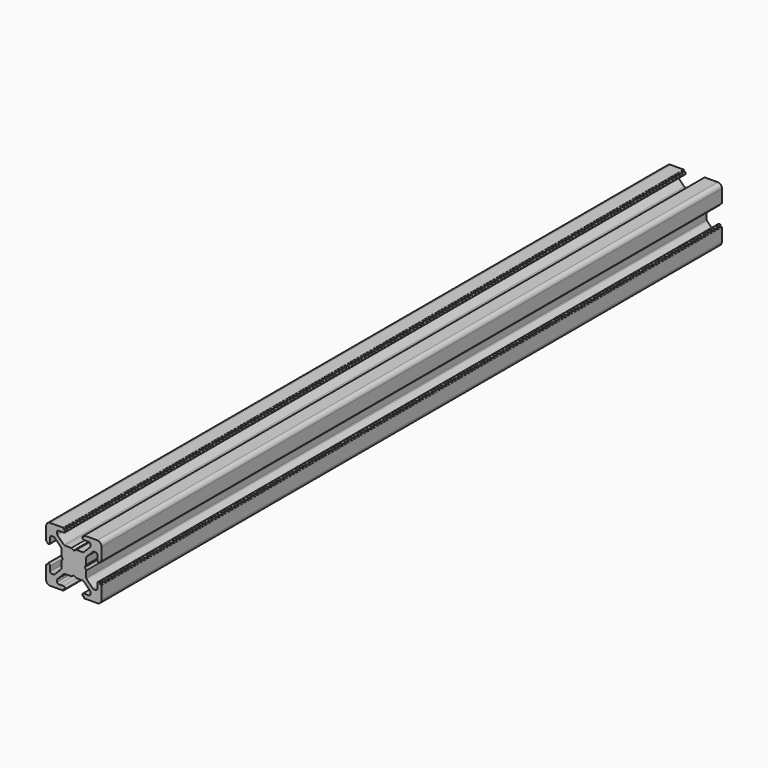
from build123d import *

# Parameters (mm, degrees)
PAD007_DEPTH    = 280
POCKET019_DEPTH = 280.001


with BuildPart() as pad007:
    # Sketch015 → Pad007 (new body)
    with BuildSketch(Plane(origin=(0, 0, -1.5), x_dir=(0, 0, -1), z_dir=(0, 1, 0))):
        with BuildLine():
            Line((0, 20), (4.65, 20))
            ThreePointArc((4.85, 19.8), (4.791421, 19.941421), (4.65, 20))
            Line((4.85, 19.8), (4.85, 19.5))
            Line((4.85, 19.5), (5.2, 19.5))
            ThreePointArc((5.4, 19.3), (5.341421, 19.441421), (5.2, 19.5))
            Line((5.4, 19.3), (5.4, 19))
            ThreePointArc((4.9, 18.5), (5.253553, 18.646446), (5.4, 19))
            Line((4.9, 18.5), (2.999999, 18.5))
            ThreePointArc((2.999999, 18.5), (2.646446, 18.353553), (2.499999, 18))
            Line((2.499999, 18), (2.499999, 17.267767))
            ThreePointArc((2.499999, 17.267767), (2.53806, 17.076425), (2.646446, 16.914213))
            Line((2.646446, 16.914213), (4.914213, 14.646447))
            ThreePointArc((4.914213, 14.646447), (5.076424, 14.53806), (5.267766, 14.5))
            Line((5.267766, 14.5), (7.54641, 14.5))
            ThreePointArc((7.64641, 14.473205), (7.598173, 14.493185), (7.54641, 14.5))
            Line((7.64641, 14.473205), (8.4, 14.03812))
            ThreePointArc((8.4, 14.03812), (8.5, 14.011325), (8.6, 14.03812))
            Line((8.6, 14.03812), (9.35359, 14.473205))
            ThreePointArc((9.45359, 14.5), (9.401827, 14.493185), (9.35359, 14.473205))
            Line((9.45359, 14.5), (11.732234, 14.5))
            ThreePointArc((11.732234, 14.5), (11.923576, 14.53806), (12.085787, 14.646447))
            Line((12.085787, 14.646447), (14.353554, 16.914213))
            ThreePointArc((14.353554, 16.914213), (14.46194, 17.076425), (14.500001, 17.267767))
            Line((14.500001, 17.267767), (14.500001, 18))
            ThreePointArc((14.500001, 18), (14.353554, 18.353553), (14.000001, 18.5))
            Line((14.000001, 18.5), (12.1, 18.5))
            ThreePointArc((11.6, 19), (11.746447, 18.646446), (12.1, 18.5))
            Line((11.6, 19), (11.6, 19.3))
            ThreePointArc((11.8, 19.5), (11.658579, 19.441421), (11.6, 19.3))
            Line((11.8, 19.5), (12.15, 19.5))
            Line((12.15, 19.5), (12.15, 19.8))
            ThreePointArc((12.35, 20), (12.208579, 19.941421), (12.15, 19.8))
            Line((12.35, 20), (17, 20))
            ThreePointArc((18.5, 18.5), (18.06066, 19.56066), (17, 20))
            Line((18.5, 18.5), (18.5, 13.85))
            ThreePointArc((18.3, 13.65), (18.441421, 13.708578), (18.5, 13.85))
            Line((18.3, 13.65), (18, 13.65))
            Line((18, 13.65), (18, 13.3))
            ThreePointArc((17.8, 13.1), (17.941421, 13.158579), (18, 13.3))
            Line((17.8, 13.1), (17.5, 13.1))
            ThreePointArc((17, 13.6), (17.146446, 13.246447), (17.5, 13.1))
            Line((17, 13.6), (17, 15.5))
            ThreePointArc((17, 15.5), (16.853553, 15.853553), (16.5, 16))
            Line((16.5, 16), (15.767767, 16))
            ThreePointArc((15.767767, 16), (15.576425, 15.961939), (15.414213, 15.853553))
            Line((15.414213, 15.853553), (13.146446, 13.585786))
            ThreePointArc((13.146446, 13.585786), (13.03806, 13.423574), (13, 13.232233))
            Line((13, 13.232233), (13, 10.953589))
            ThreePointArc((12.973205, 10.853589), (12.993185, 10.901825), (13, 10.953589))
            Line((12.973205, 10.853589), (12.53812, 10.1))
            ThreePointArc((12.53812, 10.1), (12.511325, 10), (12.53812, 9.9))
            Line((12.53812, 9.9), (12.973205, 9.146411))
            ThreePointArc((13, 9.046411), (12.993185, 9.098175), (12.973205, 9.146411))
            Line((13, 9.046411), (13, 6.767767))
            ThreePointArc((13, 6.767767), (13.03806, 6.576426), (13.146446, 6.414214))
            Line((13.146446, 6.414214), (15.414213, 4.146447))
            ThreePointArc((15.414213, 4.146447), (15.576425, 4.038061), (15.767767, 4))
            Line((15.767767, 4), (16.5, 4))
            ThreePointArc((16.5, 4), (16.853553, 4.146447), (17, 4.5))
            Line((17, 4.5), (17, 6.4))
            ThreePointArc((17.5, 6.9), (17.146446, 6.753553), (17, 6.4))
            Line((17.5, 6.9), (17.8, 6.9))
            ThreePointArc((18, 6.7), (17.941421, 6.841421), (17.8, 6.9))
            Line((18, 6.7), (18, 6.35))
            Line((18, 6.35), (18.3, 6.35))
            ThreePointArc((18.5, 6.15), (18.441421, 6.291422), (18.3, 6.35))
            Line((18.5, 6.15), (18.5, 1.5))
            ThreePointArc((17, 0), (18.06066, 0.43934), (18.5, 1.5))
            Line((17, 0), (12.35, 0))
            ThreePointArc((12.15, 0.2), (12.208579, 0.058579), (12.35, 0))
            Line((12.15, 0.2), (12.15, 0.5))
            Line((12.15, 0.5), (11.8, 0.5))
            ThreePointArc((11.6, 0.7), (11.658579, 0.558579), (11.8, 0.5))
            Line((11.6, 0.7), (11.6, 1))
            ThreePointArc((12.1, 1.5), (11.746447, 1.353554), (11.6, 1))
            Line((12.1, 1.5), (14.000001, 1.5))
            ThreePointArc((14.000001, 1.5), (14.353554, 1.646447), (14.500001, 2))
            Line((14.500001, 2), (14.500001, 2.732233))
            ThreePointArc((14.500001, 2.732233), (14.46194, 2.923575), (14.353554, 3.085787))
            Line((14.353554, 3.085787), (12.085787, 5.353553))
            ThreePointArc((12.085787, 5.353553), (11.923576, 5.46194), (11.732234, 5.5))
            Line((11.732234, 5.5), (9.45359, 5.5))
            ThreePointArc((9.35359, 5.526795), (9.401827, 5.506815), (9.45359, 5.5))
            Line((9.35359, 5.526795), (8.6, 5.96188))
            ThreePointArc((8.6, 5.96188), (8.5, 5.988675), (8.4, 5.96188))
            Line((8.4, 5.96188), (7.64641, 5.526795))
            ThreePointArc((7.54641, 5.5), (7.598173, 5.506815), (7.64641, 5.526795))
            Line((7.54641, 5.5), (5.267766, 5.5))
            ThreePointArc((5.267766, 5.5), (5.076424, 5.46194), (4.914213, 5.353553))
            Line((4.914213, 5.353553), (2.646446, 3.085787))
            ThreePointArc((2.646446, 3.085787), (2.53806, 2.923575), (2.499999, 2.732233))
            Line((2.499999, 2.732233), (2.499999, 2))
            ThreePointArc((2.499999, 2), (2.646446, 1.646447), (2.999999, 1.5))
            Line((2.999999, 1.5), (4.9, 1.5))
            ThreePointArc((5.4, 1), (5.253553, 1.353554), (4.9, 1.5))
            Line((5.4, 1), (5.4, 0.7))
            ThreePointArc((5.2, 0.5), (5.341421, 0.558579), (5.4, 0.7))
            Line((5.2, 0.5), (4.85, 0.5))
            Line((4.85, 0.5), (4.85, 0.2))
            ThreePointArc((4.65, 0), (4.791421, 0.058579), (4.85, 0.2))
            Line((4.65, 0), (0, 0))
            ThreePointArc((-1.5, 1.5), (-1.06066, 0.43934), (0, 0))
            Line((-1.5, 1.5), (-1.5, 6.15))
            ThreePointArc((-1.3, 6.35), (-1.441421, 6.291422), (-1.5, 6.15))
            Line((-1.3, 6.35), (-1, 6.35))
            Line((-1, 6.35), (-1, 6.7))
            ThreePointArc((-0.8, 6.9), (-0.941421, 6.841421), (-1, 6.7))
            Line((-0.8, 6.9), (-0.5, 6.9))
            ThreePointArc((0, 6.4), (-0.146446, 6.753553), (-0.5, 6.9))
            Line((0, 6.4), (0, 4.5))
            ThreePointArc((0, 4.5), (0.146447, 4.146447), (0.5, 4))
            Line((0.5, 4), (1.232233, 4))
            ThreePointArc((1.232233, 4), (1.423575, 4.038061), (1.585787, 4.146447))
            Line((1.585787, 4.146447), (3.853554, 6.414214))
            ThreePointArc((3.853554, 6.414214), (3.96194, 6.576426), (4, 6.767767))
            Line((4, 6.767767), (4, 9.046411))
            ThreePointArc((4.026795, 9.146411), (4.006815, 9.098175), (4, 9.046411))
            Line((4.026795, 9.146411), (4.46188, 9.9))
            ThreePointArc((4.46188, 9.9), (4.488675, 10), (4.46188, 10.1))
            Line((4.46188, 10.1), (4.026795, 10.853589))
            ThreePointArc((4, 10.953589), (4.006815, 10.901825), (4.026795, 10.853589))
            Line((4, 10.953589), (4, 13.232233))
            ThreePointArc((4, 13.232233), (3.96194, 13.423574), (3.853554, 13.585786))
            Line((3.853554, 13.585786), (1.585787, 15.853553))
            ThreePointArc((1.585787, 15.853553), (1.423575, 15.961939), (1.232233, 16))
            Line((1.232233, 16), (0.5, 16))
            ThreePointArc((0.5, 16), (0.146447, 15.853553), (0, 15.5))
            Line((0, 15.5), (0, 13.6))
            ThreePointArc((-0.5, 13.1), (-0.146446, 13.246447), (0, 13.6))
            Line((-0.5, 13.1), (-0.8, 13.1))
            ThreePointArc((-1, 13.3), (-0.941421, 13.158579), (-0.8, 13.1))
            Line((-1, 13.3), (-1, 13.65))
            Line((-1, 13.65), (-1.3, 13.65))
            ThreePointArc((-1.5, 13.85), (-1.441421, 13.708578), (-1.3, 13.65))
            Line((-1.5, 13.85), (-1.5, 18.5))
            ThreePointArc((0, 20), (-1.06066, 19.56066), (-1.5, 18.5))
        make_face()
    extrude(amount=PAD007_DEPTH)


with BuildPart() as fusion009:
    # Pocket019 base: copy of Pad007
    add(pad007.part)

    # Sketch016 → Pocket019 (cut, through all)
    with BuildSketch(Plane(origin=(0, 280, -1.5), x_dir=(0, 0, -1), z_dir=(0, 1, 0))):
        with BuildLine():
            ThreePointArc((6.586105, 12.989641), (5.988263, 12.50841), (5.507825, 11.909931))
            Line((6.054705, 11.258185), (5.507825, 11.909931))
            ThreePointArc((6.054705, 11.258185), (5.75, 10), (6.054705, 8.741815))
            Line((5.507825, 8.090069), (6.054705, 8.741815))
            ThreePointArc((5.507825, 8.090069), (5.988263, 7.49159), (6.586105, 7.010359))
            Line((7.241815, 7.554705), (6.586105, 7.010359))
            ThreePointArc((7.241815, 7.554705), (8.5, 7.25), (9.758185, 7.554705))
            Line((10.413895, 7.010359), (9.758185, 7.554705))
            ThreePointArc((10.413895, 7.010359), (11.011737, 7.49159), (11.492175, 8.090069))
            Line((10.945295, 8.741815), (11.492175, 8.090069))
            ThreePointArc((10.945295, 8.741815), (11.25, 10), (10.945295, 11.258185))
            Line((11.492175, 11.909931), (10.945295, 11.258185))
            ThreePointArc((11.492175, 11.909931), (11.011737, 12.50841), (10.413895, 12.989641))
            Line((9.758185, 12.445295), (10.413895, 12.989641))
            ThreePointArc((9.758185, 12.445295), (8.5, 12.75), (7.241815, 12.445295))
            Line((6.586105, 12.989641), (7.241815, 12.445295))
        make_face()
    extrude(amount=-POCKET019_DEPTH, mode=Mode.SUBTRACT)

    # Fusion009: union Pad007
    add(pad007.part)


with BuildPart() as fusion009_1:
    # Fusion009 placement: moved
    add(fusion009.part.moved(Location((217, -156, -76))))


solid = fusion009_1.part
